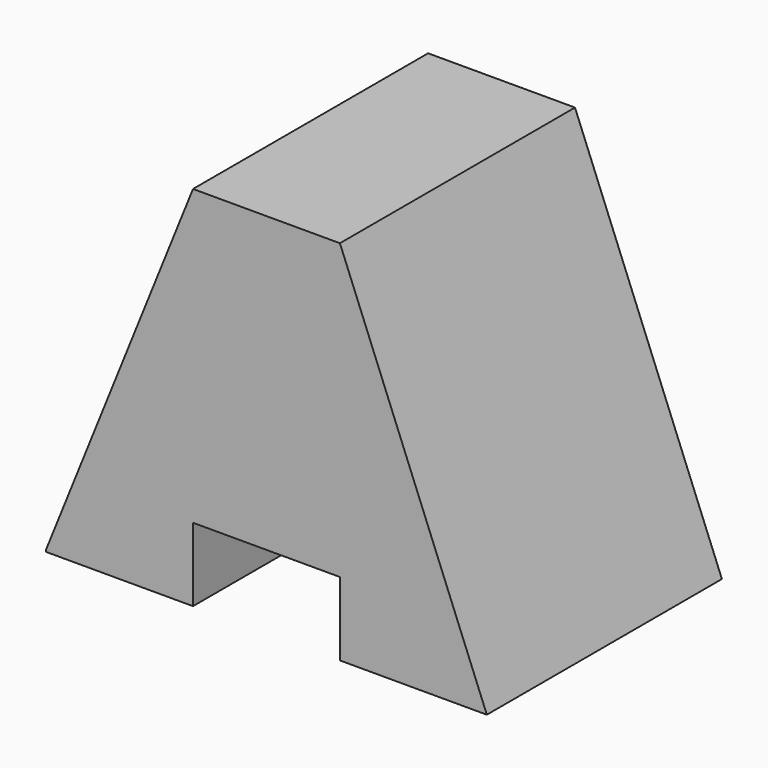
from build123d import *

# Parameters (mm, degrees)
F0_W     = 38.1
F0_H     = 31.75
F1_DEPTH = 25.4
F3_DEPTH = 25.4
F5_DEPTH = 25.4
F6_W     = 12.7
F6_H     = 6.35
F7_DEPTH = 25.4


with BuildPart() as f1:
    # F0 (on Front) → F1 (new body)
    with BuildSketch(Plane.XZ):
        with Locations((32.189709, 19.003802)):
            Rectangle(F0_W, F0_H)
    extrude(amount=F1_DEPTH)

    # F2 (on Front) → F3 (cut)
    with BuildSketch(Plane.XZ):
        Polygon((51.239709, 34.878802), (38.539709, 34.878802), (51.239709, 3.128802), align=None)
    extrude(amount=F3_DEPTH, mode=Mode.SUBTRACT)

    # F4 (on Front) → F5 (cut)
    with BuildSketch(Plane.XZ):
        Polygon((13.139709, 3.309423), (25.839709, 34.878802), (13.139709, 35.059423), align=None)
    extrude(amount=F5_DEPTH, mode=Mode.SUBTRACT)

    # F6 (on Front) → F7 (cut)
    with BuildSketch(Plane.XZ):
        with Locations((32.189709, 6.303802)):
            Rectangle(F6_W, F6_H)
    extrude(amount=F7_DEPTH, mode=Mode.SUBTRACT)


solid = f1.part
